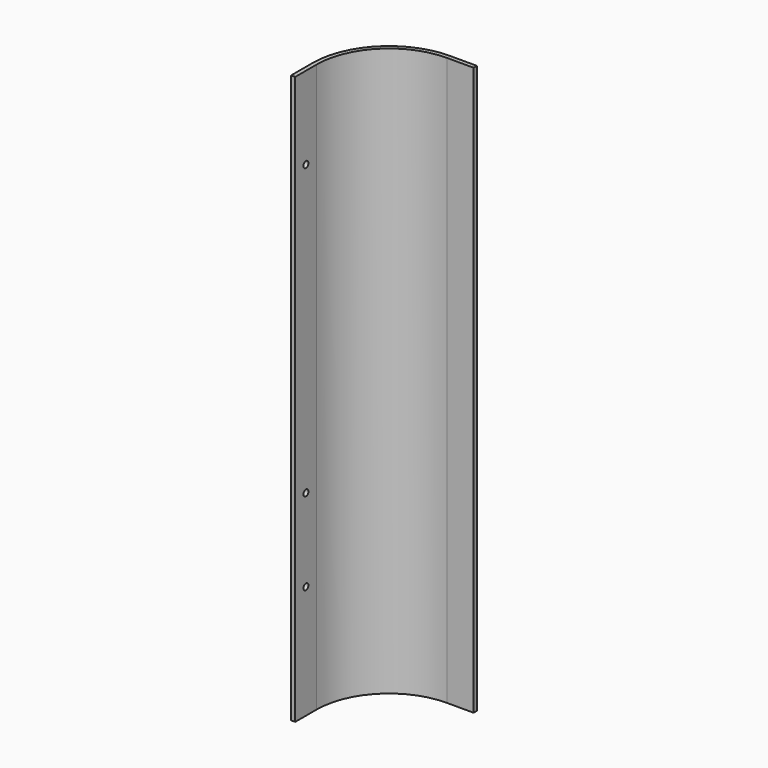
from build123d import *

# Parameters (mm, degrees)
F1_DEPTH = 275
F2_R     = 1.5
F3_DEPTH = 50.001


with BuildPart() as f1:
    # F0 (on Top) → F1 (new body)
    with BuildSketch(Plane.XY):
        with BuildLine():
            Line((0, 13), (0, 0))
            Line((0, 0), (2, 0))
            Line((2, 0), (2, 13))
            ThreePointArc((2, 13), (12.251263, 37.748737), (37, 48))
            Line((37, 48), (50, 48))
            Line((50, 48), (50, 50))
            Line((50, 50), (37, 50))
            ThreePointArc((37, 50), (10.837049, 39.162951), (0, 13))
        make_face()
    extrude(amount=F1_DEPTH)

    # F2 (on face) → F3 (cut, through all)
    with BuildSketch(Plane(origin=(0, 0, 0), x_dir=(0, -1, 0), z_dir=(-1, 0, 0))):
        with Locations((-6.5, 235)):
            Circle(F2_R)
        with Locations((-6.5, 95)):
            Circle(F2_R)
        with Locations((-6.5, 55)):
            Circle(F2_R)
    extrude(amount=-F3_DEPTH, mode=Mode.SUBTRACT)


solid = f1.part
